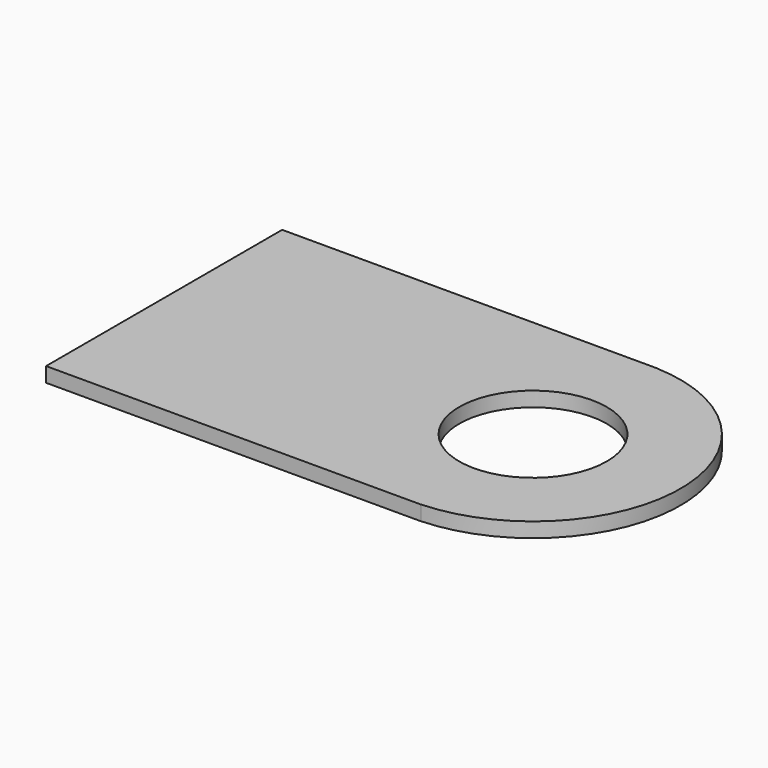
from build123d import *

# Parameters (mm, degrees)
CYLINDER014_R     = 0.5
CYLINDER014_DEPTH = 0.1
BOX007_W          = 2.54
BOX007_H          = 2
BOX007_DEPTH      = 0.1
CYLINDER013_R     = 0.5
CYLINDER013_DEPTH = 0.1
CYLINDER012_R     = 1
CYLINDER012_DEPTH = 0.1


with BuildPart() as cylinder014:
    # Cylinder014 → Cylinder014 (new body)
    with BuildSketch(Plane.XY.offset(1)):
        Circle(CYLINDER014_R)
    extrude(amount=CYLINDER014_DEPTH)


with BuildPart() as cut010:
    # Box007 → Box007 (new body)
    with BuildSketch(Plane(origin=(-2.5, -1, 1), x_dir=(1, 0, 0), z_dir=(0, 0, 1))):
        with Locations((1.27, 1)):
            Rectangle(BOX007_W, BOX007_H)
    extrude(amount=BOX007_DEPTH)

    # Cut010: cut Cylinder014
    add(cylinder014.part, mode=Mode.SUBTRACT)


with BuildPart() as cylinder013:
    # Cylinder013 → Cylinder013 (new body)
    with BuildSketch(Plane.XY.offset(1)):
        Circle(CYLINDER013_R)
    extrude(amount=CYLINDER013_DEPTH)


with BuildPart() as fusion004:
    # Cylinder012 → Cylinder012 (new body)
    with BuildSketch(Plane.XY.offset(1)):
        Circle(CYLINDER012_R)
    extrude(amount=CYLINDER012_DEPTH)

    # Cut009: cut Cylinder013
    add(cylinder013.part, mode=Mode.SUBTRACT)

    # Fusion004: union Cut010
    add(cut010.part)


with BuildPart() as fusion004_1:
    # Fusion004 placement: moved
    add(fusion004.part.moved(Location((0, -10.16, 5.5))))


solid = fusion004_1.part
